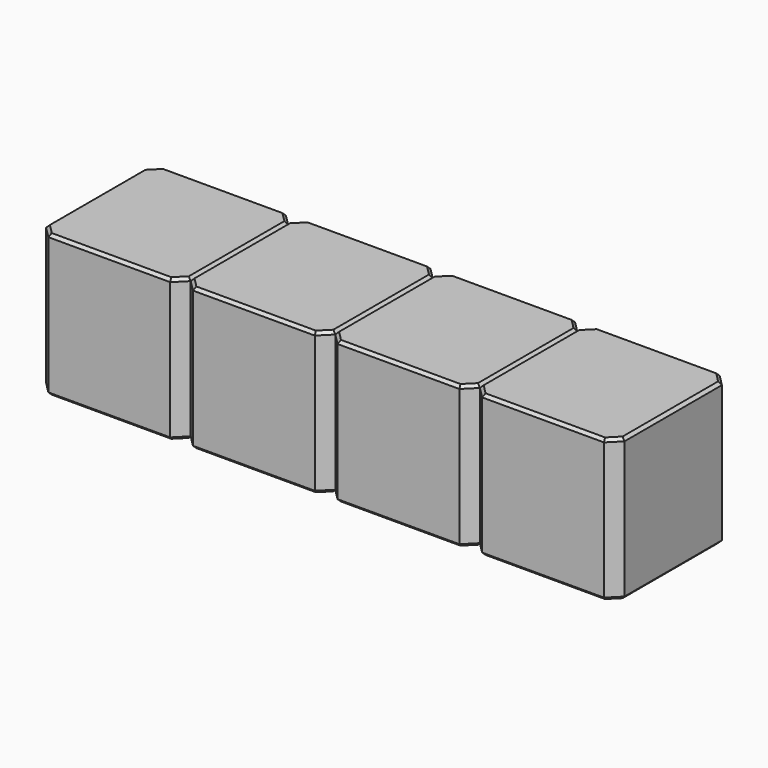
from build123d import *

# Parameters (mm, degrees)
SKETCH217_W      = 2.54
SKETCH217_H      = 2.54
PAD072_DEPTH     = 2.5
CHAMFER024_SIZE  = 0.2
CHAMFER026_SIZE  = 0.05
ARRAY011_X_COUNT = 4
ARRAY011_X_PITCH = 2.54


with BuildPart() as array011:
    # Sketch217 → Pad072 (new body)
    with BuildSketch(Plane.XY):
        Rectangle(SKETCH217_W, SKETCH217_H)
    extrude(amount=PAD072_DEPTH)

    # Chamfer024
    chamfer024_edges = [array011.edges().sort_by_distance(p)[0] for p in [
        (1.27, -1.27, 1.25),
        (-1.27, -1.27, 1.25),
        (1.27, 1.27, 1.25),
        (-1.27, 1.27, 1.25),
    ]]
    chamfer(chamfer024_edges, length=CHAMFER024_SIZE)

    # Chamfer026
    chamfer026_edges = [array011.edges().sort_by_distance(p)[0] for p in [
        (0, -1.27, 2.5),
        (-1.17, -1.17, 2.5),
        (1.17, -1.17, 2.5),
        (-1.27, 0, 2.5),
        (1.27, 0, 2.5),
        (-1.17, 1.17, 2.5),
        (1.17, 1.17, 2.5),
        (0, 1.27, 2.5),
        (0, -1.27, 0),
        (-1.17, -1.17, 0),
        (1.17, -1.17, 0),
        (-1.27, 0, 0),
        (1.27, 0, 0),
        (-1.17, 1.17, 0),
        (1.17, 1.17, 0),
        (0, 1.27, 0),
    ]]
    chamfer(chamfer026_edges, length=CHAMFER026_SIZE)


with BuildPart() as array011_copy1:
    # Array011 X: instance of Array011
    add(array011.part.moved(Location(Vector(1, 0, 0) * (1 * ARRAY011_X_PITCH))))


with BuildPart() as array011_copy2:
    # Array011 X: instance of Array011
    add(array011.part.moved(Location(Vector(1, 0, 0) * (2 * ARRAY011_X_PITCH))))


with BuildPart() as array011_copy3:
    # Array011 X: instance of Array011
    add(array011.part.moved(Location(Vector(1, 0, 0) * (3 * ARRAY011_X_PITCH))))


solid = Compound([array011.part, array011_copy1.part, array011_copy2.part, array011_copy3.part])
